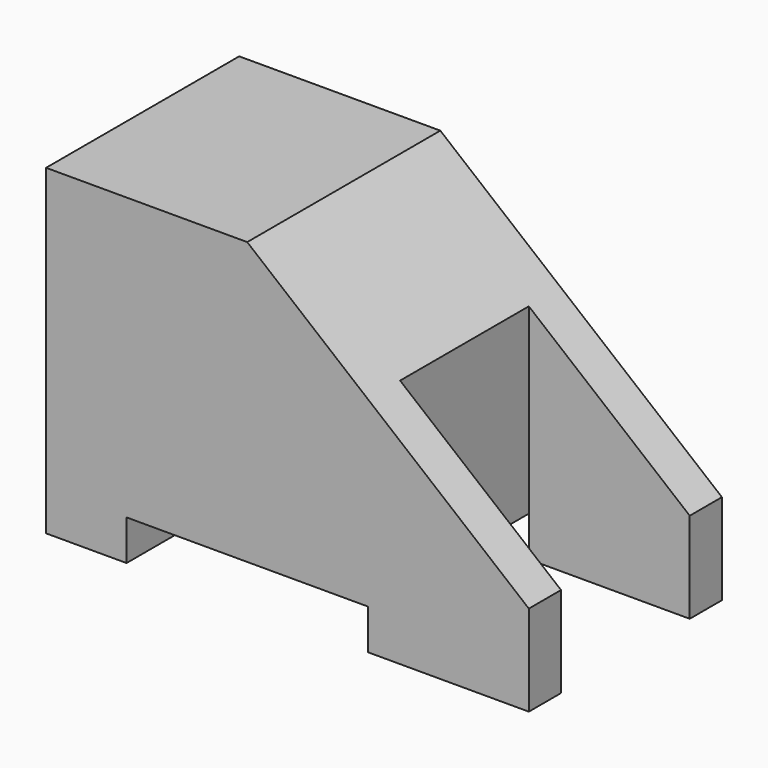
from build123d import *

# Parameters (mm, degrees)
F1_DEPTH = 7.5
F2_W     = 35.456628
F2_H     = 10
F3_DEPTH = 20.001


with BuildPart() as f1:
    # F0 (on Front) → F1 (new body, symmetric)
    with BuildSketch(Plane.XZ):
        Polygon((0, 20), (0, 0), (5, 0), (5, 2.5), (20, 2.5), (20, 0), (30, 0), (30, 5.639098), (12.5, 20), align=None)
    extrude(amount=F1_DEPTH, both=True)

    # F2 (on face) → F3 (cut, through all)
    with BuildSketch(Plane(origin=(0, 0, 0), x_dir=(1, 0, 0), z_dir=(0, 0, -1))):
        with Locations((37.728314, 0)):
            Rectangle(F2_W, F2_H)
    extrude(amount=-F3_DEPTH, mode=Mode.SUBTRACT)


solid = f1.part
